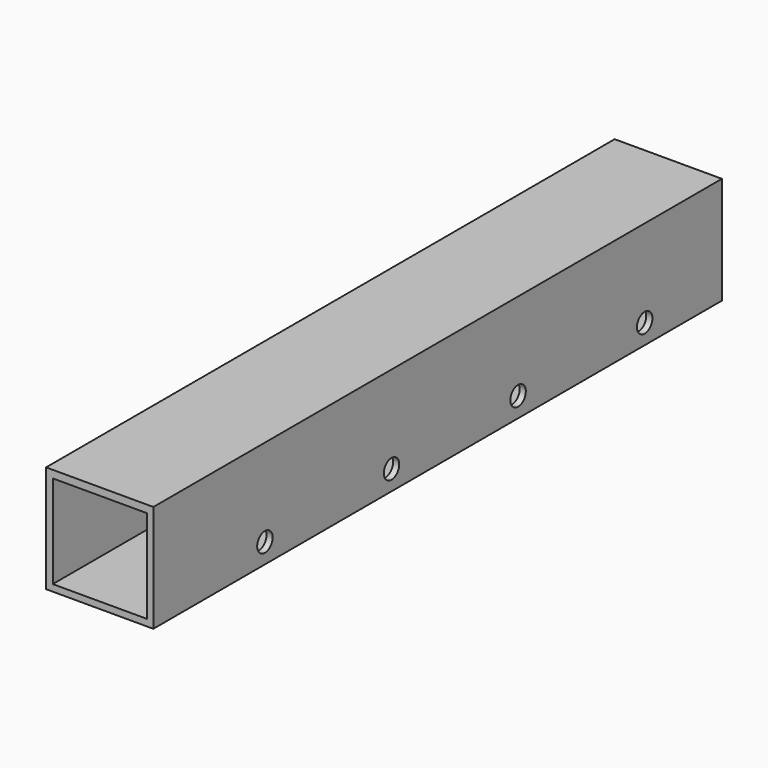
from build123d import *

# Parameters (mm, degrees)
F0_W     = 50.8
F0_H     = 50.8
F0_W_2   = 44.7234460877
F0_H_2   = 44.0774458626
F1_DEPTH = 168.275
F3_D     = 9.144
F3_DEPTH = 25.4
F3_TIP   = 2.7471347502
F5_D     = 5.08
F5_DEPTH = 25.4
F5_TIP   = 1.5261859723


with BuildPart() as f1:
    # F0 (on Front) → F1 (new body, symmetric)
    with BuildSketch(Plane.XZ):
        with Locations((0.9841322899, 3.6690509832)):
            Rectangle(F0_W, F0_H)
        with Locations((1.1056640122, 3.467582593)):
            Rectangle(F0_W_2, F0_H_2, mode=Mode.SUBTRACT)
    extrude(amount=F1_DEPTH, both=True)

    # F3
    with Locations(Plane.YZ.offset(26.3841322899)):
        with Locations((-102.235, -12.3329490168), (-27.305, -12.3329490168), (47.625, -12.3329490168), (122.555, -12.3329490168)):
            Hole(F3_D / 2, depth=F3_DEPTH)
            with Locations((0, 0, -(F3_DEPTH + F3_TIP / 2))):  # 118° drill point
                Cone(0, F3_D / 2, F3_TIP, mode=Mode.SUBTRACT)

    # F5
    with Locations(Plane(origin=(-24.4158677101, 0, 0), x_dir=(0, -1, 0), z_dir=(-1, 0, 0))):
        with Locations((-123.0434924364, -12.0630878955), (-47.2589172423, -12.0630878955), (27.3903068155, -12.0630878955), (102.3233607411, -12.0630878955)):
            Hole(F5_D / 2, depth=F5_DEPTH)
            with Locations((0, 0, -(F5_DEPTH + F5_TIP / 2))):  # 118° drill point
                Cone(0, F5_D / 2, F5_TIP, mode=Mode.SUBTRACT)


solid = f1.part
